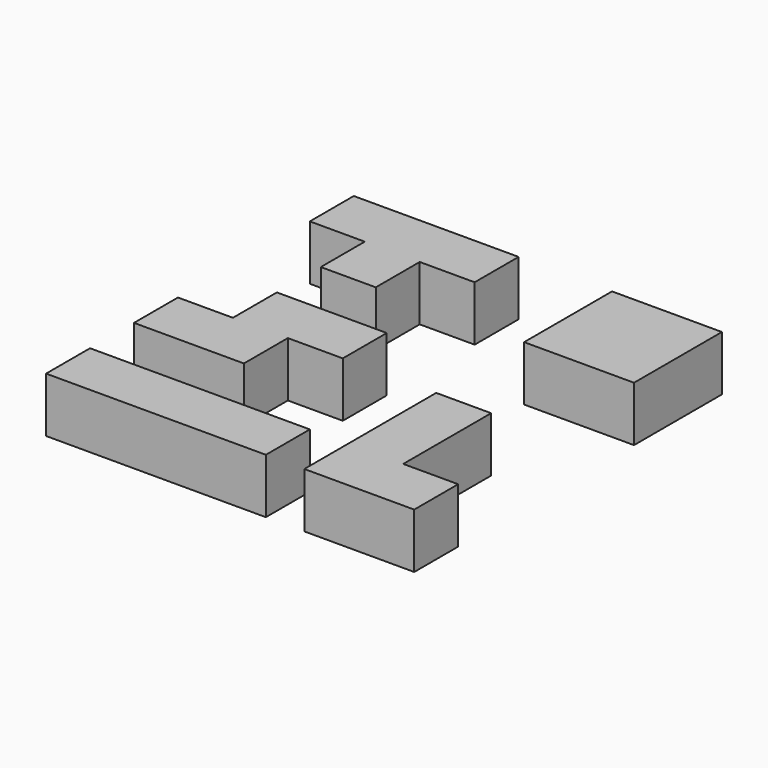
from build123d import *

# Parameters (mm, degrees)
BOX001_W     = 10
BOX001_H     = 10
BOX001_DEPTH = 10
BOX002_W     = 10
BOX002_H     = 10
BOX002_DEPTH = 10
BOX003_W     = 10
BOX003_H     = 10
BOX003_DEPTH = 10
BOX_W        = 10
BOX_H        = 10
BOX_DEPTH    = 10
BOX005_W     = 10
BOX005_H     = 10
BOX005_DEPTH = 10
BOX006_W     = 10
BOX006_H     = 10
BOX006_DEPTH = 10
BOX007_W     = 10
BOX007_H     = 10
BOX007_DEPTH = 10
BOX004_W     = 10
BOX004_H     = 10
BOX004_DEPTH = 10
BOX009_W     = 10
BOX009_H     = 10
BOX009_DEPTH = 10
BOX010_W     = 10
BOX010_H     = 10
BOX010_DEPTH = 10
BOX011_W     = 10
BOX011_H     = 10
BOX011_DEPTH = 10
BOX008_W     = 10
BOX008_H     = 10
BOX008_DEPTH = 10
BOX013_W     = 10
BOX013_H     = 10
BOX013_DEPTH = 10
BOX014_W     = 10
BOX014_H     = 10
BOX014_DEPTH = 10
BOX015_W     = 10
BOX015_H     = 10
BOX015_DEPTH = 10
BOX012_W     = 10
BOX012_H     = 10
BOX012_DEPTH = 10
BOX017_W     = 10
BOX017_H     = 10
BOX017_DEPTH = 10
BOX018_W     = 10
BOX018_H     = 10
BOX018_DEPTH = 10
BOX019_W     = 10
BOX019_H     = 10
BOX019_DEPTH = 10
BOX016_W     = 10
BOX016_H     = 10
BOX016_DEPTH = 10


with BuildPart() as cube001:
    # Box001 → Box001 (new body)
    with BuildSketch(Plane(origin=(10, 0, 0), x_dir=(1, 0, 0), z_dir=(0, 0, 1))):
        with Locations((5, 5)):
            Rectangle(BOX001_W, BOX001_H)
    extrude(amount=BOX001_DEPTH)


with BuildPart() as cube002:
    # Box002 → Box002 (new body)
    with BuildSketch(Plane(origin=(20, 0, 0), x_dir=(1, 0, 0), z_dir=(0, 0, 1))):
        with Locations((5, 5)):
            Rectangle(BOX002_W, BOX002_H)
    extrude(amount=BOX002_DEPTH)


with BuildPart() as cube003:
    # Box003 → Box003 (new body)
    with BuildSketch(Plane(origin=(30, 0, 0), x_dir=(1, 0, 0), z_dir=(0, 0, 1))):
        with Locations((5, 5)):
            Rectangle(BOX003_W, BOX003_H)
    extrude(amount=BOX003_DEPTH)


with BuildPart() as obj1:
    # Box → Box (new body)
    with BuildSketch(Plane.XY):
        with Locations((5, 5)):
            Rectangle(BOX_W, BOX_H)
    extrude(amount=BOX_DEPTH)

    # Fusion: union Cube001, Cube002, Cube003
    add(cube001.part)
    add(cube002.part)
    add(cube003.part)


with BuildPart() as cube005:
    # Box005 → Box005 (new body)
    with BuildSketch(Plane(origin=(57, 0, 0), x_dir=(1, 0, 0), z_dir=(0, 0, 1))):
        with Locations((5, 5)):
            Rectangle(BOX005_W, BOX005_H)
    extrude(amount=BOX005_DEPTH)


with BuildPart() as cube006:
    # Box006 → Box006 (new body)
    with BuildSketch(Plane(origin=(47, 10, 0), x_dir=(1, 0, 0), z_dir=(0, 0, 1))):
        with Locations((5, 5)):
            Rectangle(BOX006_W, BOX006_H)
    extrude(amount=BOX006_DEPTH)


with BuildPart() as cube007:
    # Box007 → Box007 (new body)
    with BuildSketch(Plane(origin=(47, 20, 0), x_dir=(1, 0, 0), z_dir=(0, 0, 1))):
        with Locations((5, 5)):
            Rectangle(BOX007_W, BOX007_H)
    extrude(amount=BOX007_DEPTH)


with BuildPart() as obj2:
    # Box004 → Box004 (new body)
    with BuildSketch(Plane(origin=(47, 0, 0), x_dir=(1, 0, 0), z_dir=(0, 0, 1))):
        with Locations((5, 5)):
            Rectangle(BOX004_W, BOX004_H)
    extrude(amount=BOX004_DEPTH)

    # Fusion001: union Cube005, Cube006, Cube007
    add(cube005.part)
    add(cube006.part)
    add(cube007.part)


with BuildPart() as cube009:
    # Box009 → Box009 (new body)
    with BuildSketch(Plane(origin=(10, 20, 0), x_dir=(1, 0, 0), z_dir=(0, 0, 1))):
        with Locations((5, 5)):
            Rectangle(BOX009_W, BOX009_H)
    extrude(amount=BOX009_DEPTH)


with BuildPart() as cube010:
    # Box010 → Box010 (new body)
    with BuildSketch(Plane(origin=(10, 30, 0), x_dir=(1, 0, 0), z_dir=(0, 0, 1))):
        with Locations((5, 5)):
            Rectangle(BOX010_W, BOX010_H)
    extrude(amount=BOX010_DEPTH)


with BuildPart() as cube011:
    # Box011 → Box011 (new body)
    with BuildSketch(Plane(origin=(20, 30, 0), x_dir=(1, 0, 0), z_dir=(0, 0, 1))):
        with Locations((5, 5)):
            Rectangle(BOX011_W, BOX011_H)
    extrude(amount=BOX011_DEPTH)


with BuildPart() as obj3:
    # Box008 → Box008 (new body)
    with BuildSketch(Plane(origin=(0, 20, 0), x_dir=(1, 0, 0), z_dir=(0, 0, 1))):
        with Locations((5, 5)):
            Rectangle(BOX008_W, BOX008_H)
    extrude(amount=BOX008_DEPTH)

    # Fusion002: union Cube009, Cube010, Cube011
    add(cube009.part)
    add(cube010.part)
    add(cube011.part)


with BuildPart() as cube013:
    # Box013 → Box013 (new body)
    with BuildSketch(Plane(origin=(0, 60, 0), x_dir=(1, 0, 0), z_dir=(0, 0, 1))):
        with Locations((5, 5)):
            Rectangle(BOX013_W, BOX013_H)
    extrude(amount=BOX013_DEPTH)


with BuildPart() as cube014:
    # Box014 → Box014 (new body)
    with BuildSketch(Plane(origin=(10, 60, 0), x_dir=(1, 0, 0), z_dir=(0, 0, 1))):
        with Locations((5, 5)):
            Rectangle(BOX014_W, BOX014_H)
    extrude(amount=BOX014_DEPTH)


with BuildPart() as cube015:
    # Box015 → Box015 (new body)
    with BuildSketch(Plane(origin=(20, 60, 0), x_dir=(1, 0, 0), z_dir=(0, 0, 1))):
        with Locations((5, 5)):
            Rectangle(BOX015_W, BOX015_H)
    extrude(amount=BOX015_DEPTH)


with BuildPart() as obj4:
    # Box012 → Box012 (new body)
    with BuildSketch(Plane(origin=(10, 50, 0), x_dir=(1, 0, 0), z_dir=(0, 0, 1))):
        with Locations((5, 5)):
            Rectangle(BOX012_W, BOX012_H)
    extrude(amount=BOX012_DEPTH)

    # Fusion003: union Cube013, Cube014, Cube015
    add(cube013.part)
    add(cube014.part)
    add(cube015.part)


with BuildPart() as cube017:
    # Box017 → Box017 (new body)
    with BuildSketch(Plane(origin=(47, 50, 0), x_dir=(1, 0, 0), z_dir=(0, 0, 1))):
        with Locations((5, 5)):
            Rectangle(BOX017_W, BOX017_H)
    extrude(amount=BOX017_DEPTH)


with BuildPart() as cube018:
    # Box018 → Box018 (new body)
    with BuildSketch(Plane(origin=(57, 60, 0), x_dir=(1, 0, 0), z_dir=(0, 0, 1))):
        with Locations((5, 5)):
            Rectangle(BOX018_W, BOX018_H)
    extrude(amount=BOX018_DEPTH)


with BuildPart() as cube019:
    # Box019 → Box019 (new body)
    with BuildSketch(Plane(origin=(57, 50, 0), x_dir=(1, 0, 0), z_dir=(0, 0, 1))):
        with Locations((5, 5)):
            Rectangle(BOX019_W, BOX019_H)
    extrude(amount=BOX019_DEPTH)


with BuildPart() as obj3_cel:
    # Box016 → Box016 (new body)
    with BuildSketch(Plane(origin=(47, 60, 0), x_dir=(1, 0, 0), z_dir=(0, 0, 1))):
        with Locations((5, 5)):
            Rectangle(BOX016_W, BOX016_H)
    extrude(amount=BOX016_DEPTH)

    # Fusion004: union Cube017, Cube018, Cube019
    add(cube017.part)
    add(cube018.part)
    add(cube019.part)


solid = Compound([obj1.part, obj2.part, obj3.part, obj4.part, obj3_cel.part])
